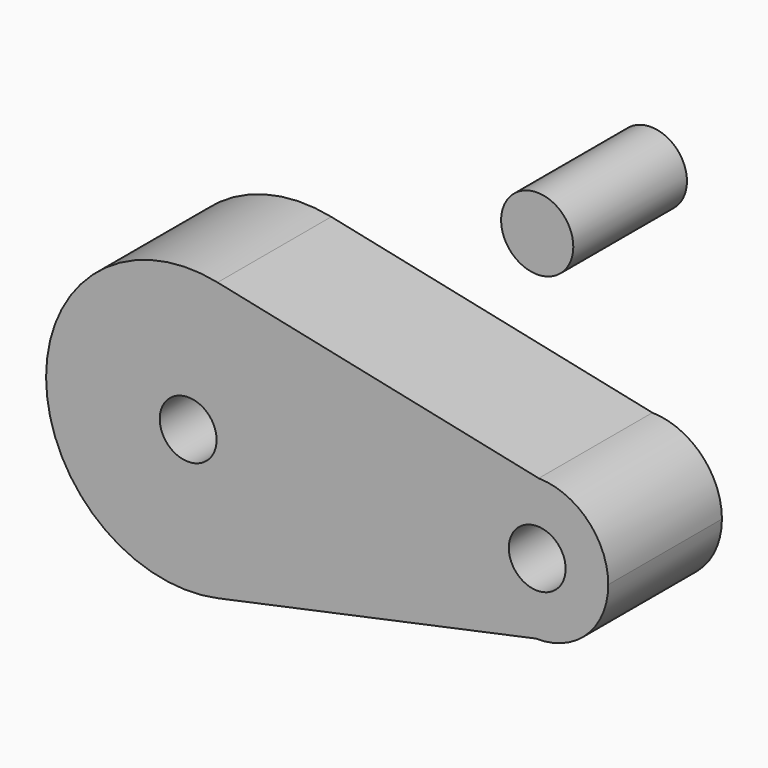
from build123d import *

# Parameters (mm, degrees)
F0_R     = 10
F0_R_2   = 12.7
F1_DEPTH = 50


with BuildPart() as f1:
    # F0 (on Front) → F1 (new body)
    with BuildSketch(Plane.XZ):
        with BuildLine():
            ThreePointArc((10.445122, -48.896824), (38.873231, -31.446334), (50, 0))
            ThreePointArc((50, 0), (38.84398, 31.482459), (10.35419, 48.91616))
            ThreePointArc((10.35419, 48.91616), (-49.999978, -0.046483), (10.445122, -48.896824))
        make_face()
        Circle(F0_R, mode=Mode.SUBTRACT)
        with BuildLine():
            ThreePointArc((10.35419, 48.91616), (38.84398, 31.482459), (50, 0))
            ThreePointArc((50, 0), (38.873231, -31.446334), (10.445122, -48.896824))
            Line((10.445122, -48.896824), (122.336807, -24.995019))
            ThreePointArc((122.336807, -24.995019), (97.841123, 0.515458), (123.367723, 24.994341))
            Line((123.367723, 24.994341), (10.35419, 48.91616))
        make_face()
        with BuildLine():
            ThreePointArc((147.835808, 0), (140.700548, 17.488598), (123.367723, 24.994341))
            ThreePointArc((123.367723, 24.994341), (97.841123, 0.515458), (122.336807, -24.995019))
            ThreePointArc((122.336807, -24.995019), (140.336165, -17.853221), (147.835808, 0))
        make_face()
        with Locations((122.835808, 0)):
            Circle(F0_R, mode=Mode.SUBTRACT)
        with Locations((122.835808, 100.662315)):
            Circle(F0_R_2)
    extrude(amount=F1_DEPTH)


solid = f1.part
